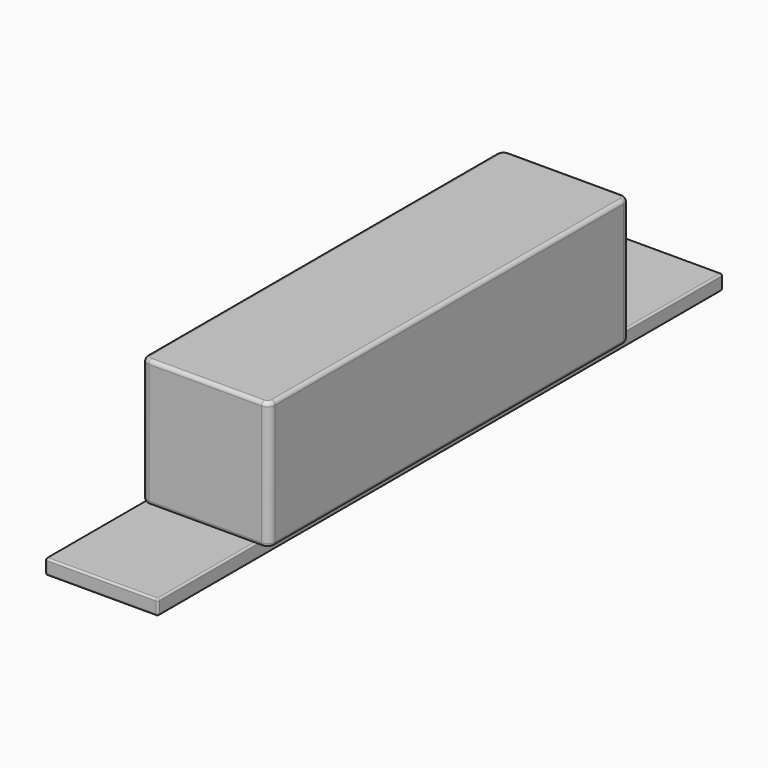
from build123d import *

# Parameters (mm, degrees)
BOX009_W                  = 94
BOX009_H                  = 15
BOX009_DEPTH              = 2
FILLET005_R               = 0.25
FILLET005_PLACEMENT_ANGLE = 90
BOX_W                     = 60
BOX_H                     = 17
BOX_DEPTH                 = 17
FILLET001_R               = 1
FILLET004_R               = 0.5
FILLET004_PLACEMENT_ANGLE = 90


with BuildPart() as obj1:
    # Box009 → Box009 (new body)
    with BuildSketch(Plane(origin=(-94, -6.5, -2), x_dir=(1, 0, 0), z_dir=(0, 0, 1))):
        with Locations((47, 7.5)):
            Rectangle(BOX009_W, BOX009_H)
    extrude(amount=BOX009_DEPTH)

    # Fillet005
    fillet005_edges = [obj1.edges().sort_by_distance(p)[0] for p in [
        (-94, -6.5, -1),
        (-94, 1, 0),
        (-94, 8.5, -1),
        (-94, 1, -2),
        (0, -6.5, -1),
        (0, 1, 0),
        (0, 8.5, -1),
        (0, 1, -2),
        (-47, -6.5, -2),
        (-47, -6.5, 0),
        (-47, 8.5, -2),
        (-47, 8.5, 0),
    ]]
    fillet(fillet005_edges, radius=FILLET005_R)


with BuildPart() as obj1_1:
    # Fillet005 placement: moved
    add(obj1.part.moved(Location((0, -16.75, -19.5))).rotate(Axis((0, -16.75, -19.5), (0, 0, 1)), FILLET005_PLACEMENT_ANGLE))


with BuildPart() as fusion034:
    # Box → Box (new body)
    with BuildSketch(Plane(origin=(0, -8.5, -17), x_dir=(1, 0, 0), z_dir=(0, 0, 1))):
        with Locations((30, 8.5)):
            Rectangle(BOX_W, BOX_H)
    extrude(amount=BOX_DEPTH)

    # Fillet001
    fillet001_edges = [fusion034.edges().sort_by_distance(p)[0] for p in [
        (0, -8.5, -8.5),
        (0, 8.5, -8.5),
        (60, -8.5, -8.5),
        (60, 8.5, -8.5),
    ]]
    fillet(fillet001_edges, radius=FILLET001_R)

    # Fillet004
    fillet004_edges = [fusion034.edges().sort_by_distance(p)[0] for p in [
        (0, 0, 0),
        (0, 0, -17),
        (30, -8.5, 0),
        (30, 8.5, 0),
        (60, 0, 0),
        (30, -8.5, -17),
        (30, 8.5, -17),
        (60, 0, -17),
    ]]
    fillet(fillet004_edges, radius=FILLET004_R)


with BuildPart() as fusion034_1:
    # Fillet004 placement: moved
    add(fusion034.part.moved(Location((0, -94.75, -2.5))).rotate(Axis((0, -94.75, -2.5), (0, 0, 1)), FILLET004_PLACEMENT_ANGLE))

    # Fusion034: union obj1
    add(obj1_1.part)


solid = fusion034_1.part
